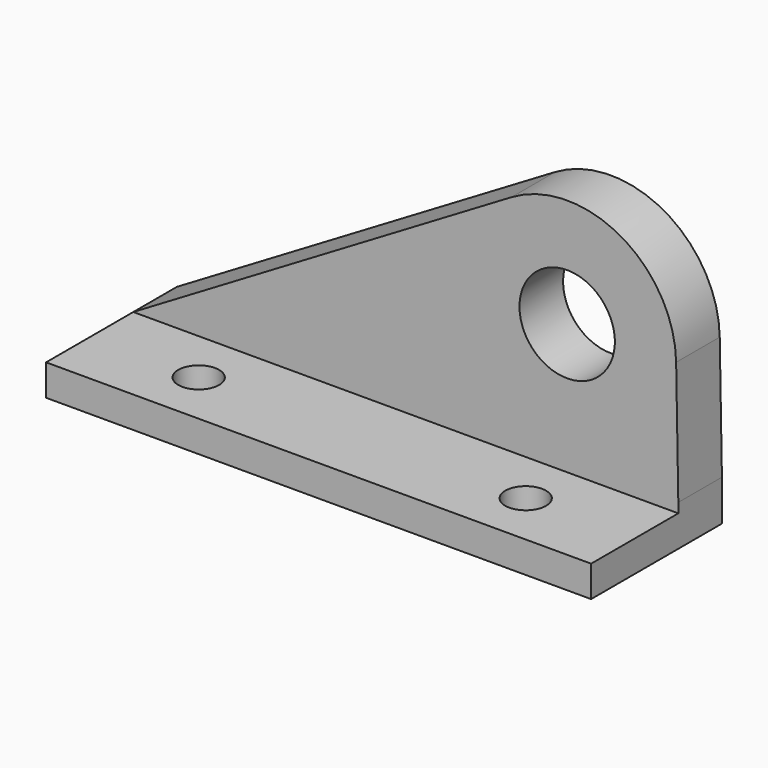
from build123d import *

# Parameters (mm, degrees)
F1_DEPTH = 38.1
F2_DEPTH = 12.7
F3_D     = 22.225
F5_D     = 9.525


with BuildPart() as f1:
    # F0 (on Front) → F1 (new body)
    with BuildSketch(Plane.XZ):
        Polygon((0, 7.2736367583), (0, 0), (127, 0), (127, 7.2736367583), (101.6, 7.2736367583), align=None)
    extrude(amount=F1_DEPTH)

    # F0 (on Front) → F2 (join)
    with BuildSketch(Plane.XZ):
        with BuildLine():
            Line((88.1509339887, 59.4981372414), (0, 7.2736367583))
            Line((0, 7.2736367583), (101.6, 7.2736367583))
            Line((101.6, 7.2736367583), (127, 7.2736367583))
            Line((127, 7.2736367583), (127, 9.525))
            Line((127, 9.525), (126.4935228461, 38.0955111241))
            ThreePointArc((126.4935228461, 38.0955111241), (113.4775446111, 59.8240110713), (88.1509339887, 59.4981372414))
        make_face()
    extrude(amount=F2_DEPTH)

    # F3 (through all)
    with Locations(Plane(origin=(0, 0, 0), x_dir=(1, 0, 0), z_dir=(0, 1, 0))):
        with Locations((101.097512958, -37.6453092096)):
            Hole(F3_D / 2)

    # F5 (through all)
    with Locations(Plane.XY.offset(7.2736367583)):
        with Locations((25.4, -25.4), (101.6, -25.4)):
            Hole(F5_D / 2)


solid = f1.part
